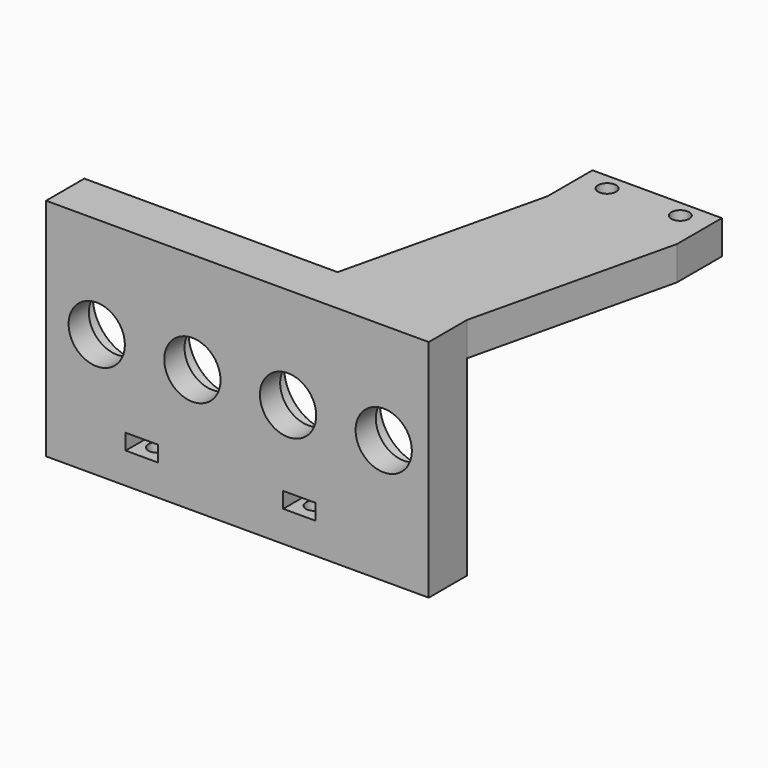
from build123d import *

# Parameters (mm, degrees)
EXTRUDE_DEPTH    = 2.8
EXTRUDE001_DEPTH = 2.8
SKETCH_W         = 68
SKETCH_H         = 40
SKETCH_R         = 5
PAD_DEPTH        = 8.5
SKETCH001_R      = 7.5
POCKET_DEPTH     = 4
SKETCH002_R      = 1.6
POCKET001_DEPTH  = 10
SKETCH003_R      = 1.6
PAD001_DEPTH     = 6
SKETCH004_W      = 11.5
SKETCH004_H      = 10
SKETCH004_R      = 1.6
PAD002_DEPTH     = 6


with BuildPart() as extrude_body:
    # Fusion → Extrude (new body)
    with BuildSketch(Plane.XY):
        Polygon((12.624044, -45.3857), (12.624044, -40.3857), (12.624044, -37.0857), (9.76616, -35.4357), (6.908276, -37.0857), (6.908276, -40.3857), (6.908276, -45.3857), align=None)
    extrude(amount=EXTRUDE_DEPTH)


with BuildPart() as extrude_body_1:
    # Extrude placement: moved
    add(extrude_body.part.moved(Location((13.2338, 33.7357, 9))))


with BuildPart() as extrude001:
    # Fusion001 → Extrude001 (new body)
    with BuildSketch(Plane.XY):
        Polygon((12.624044, -45.3857), (12.624044, -40.3857), (12.624044, -37.0857), (9.76616, -35.4357), (6.908276, -37.0857), (6.908276, -40.3857), (6.908276, -45.3857), align=None)
    extrude(amount=EXTRUDE001_DEPTH)


with BuildPart() as extrude001_1:
    # Extrude001 placement: moved
    add(extrude001.part.moved(Location((41.2338, 33.7357, 9))))


with BuildPart() as pad002:
    # Sketch → Pad (new body)
    with BuildSketch(Plane.XZ.offset(8.5)):
        with Locations((40, 23.5)):
            Rectangle(SKETCH_W, SKETCH_H)
        with Locations((15, 25.5)):
            Circle(SKETCH_R, mode=Mode.SUBTRACT)
        with Locations((32, 25.5)):
            Circle(SKETCH_R, mode=Mode.SUBTRACT)
        with Locations((49, 25.5)):
            Circle(SKETCH_R, mode=Mode.SUBTRACT)
        with Locations((66, 25.5)):
            Circle(SKETCH_R, mode=Mode.SUBTRACT)
    extrude(amount=-PAD_DEPTH)

    # Sketch001 → Pocket (cut)
    with BuildSketch(Plane(origin=(0, 0, 0), x_dir=(1, 0, 0), z_dir=(0, 1, 0))):
        with Locations((15, -25.5)):
            Circle(SKETCH001_R)
        with Locations((32, -25.5)):
            Circle(SKETCH001_R)
        with Locations((49, -25.5)):
            Circle(SKETCH001_R)
        with Locations((66, -25.5)):
            Circle(SKETCH001_R)
    extrude(amount=-POCKET_DEPTH, mode=Mode.SUBTRACT)

    # Sketch002 → Pocket001 (cut)
    with BuildSketch(Plane(origin=(0, -8.5, 3.5), x_dir=(1, 0, 0), z_dir=(0, 0, -1))):
        with Locations((51, -3.5)):
            Circle(SKETCH002_R)
        with Locations((23, -3.5)):
            Circle(SKETCH002_R)
    extrude(amount=-POCKET001_DEPTH, mode=Mode.SUBTRACT)

    # Cut: cut Extrude001
    add(extrude001_1.part, mode=Mode.SUBTRACT)

    # Cut001: cut Extrude body
    add(extrude_body_1.part, mode=Mode.SUBTRACT)

    # Sketch003 → Pad001 (new body)
    with BuildSketch(Plane.XY.offset(43.5)):
        Polygon((74, 0), (82.5, 36), (82.5, 46), (59.5, 46), (59.5, 36), (51, 0), align=None)
        with Locations((64.5, 43)):
            Circle(SKETCH003_R, mode=Mode.SUBTRACT)
        with Locations((77.5, 43)):
            Circle(SKETCH003_R, mode=Mode.SUBTRACT)
    extrude(amount=-PAD001_DEPTH)

    # Sketch004 → Pad002 (new body)
    with BuildSketch(Plane(origin=(0, 0, 37.5), x_dir=(1, 0, 0), z_dir=(0, 0, -1))):
        with Locations((65.25, -41)):
            Rectangle(SKETCH004_W, SKETCH004_H)
        with Locations((64.5, -43)):
            Circle(SKETCH004_R, mode=Mode.SUBTRACT)
    extrude(amount=PAD002_DEPTH)


solid = pad002.part
